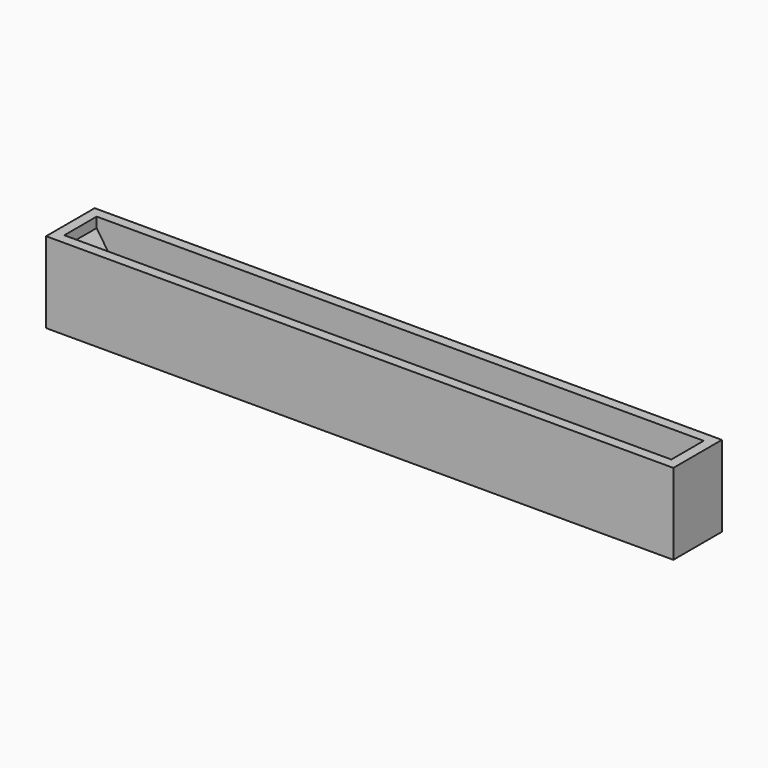
from build123d import *

# Parameters (mm, degrees)
F0_W     = 6200
F0_H     = 800
F1_DEPTH = 300
F2_W     = 6000
F2_H     = 400
F3_DEPTH = 700
F5_DEPTH = 400
F7_DEPTH = 400


with BuildPart() as f1:
    # F0 (on Front) → F1 (new body, symmetric)
    with BuildSketch(Plane.XZ):
        Rectangle(F0_W, F0_H)
    extrude(amount=F1_DEPTH, both=True)

    # F2 (on face) → F3 (cut)
    with BuildSketch(Plane.XY.offset(400)):
        Rectangle(F2_W, F2_H)
    extrude(amount=-F3_DEPTH, mode=Mode.SUBTRACT)

    # F4 (on face) → F5 (join, through all)
    with BuildSketch(Plane.XZ.offset(-200)):
        Polygon((-2600, -300), (-3000, 300), (-3000, -300), align=None)
    extrude(amount=F5_DEPTH)

    # F6 (on face) → F7 (join, through all)
    with BuildSketch(Plane.XZ.offset(-200)):
        Polygon((3000, 300), (2600, -300), (3000, -300), align=None)
    extrude(amount=F7_DEPTH)


solid = f1.part
